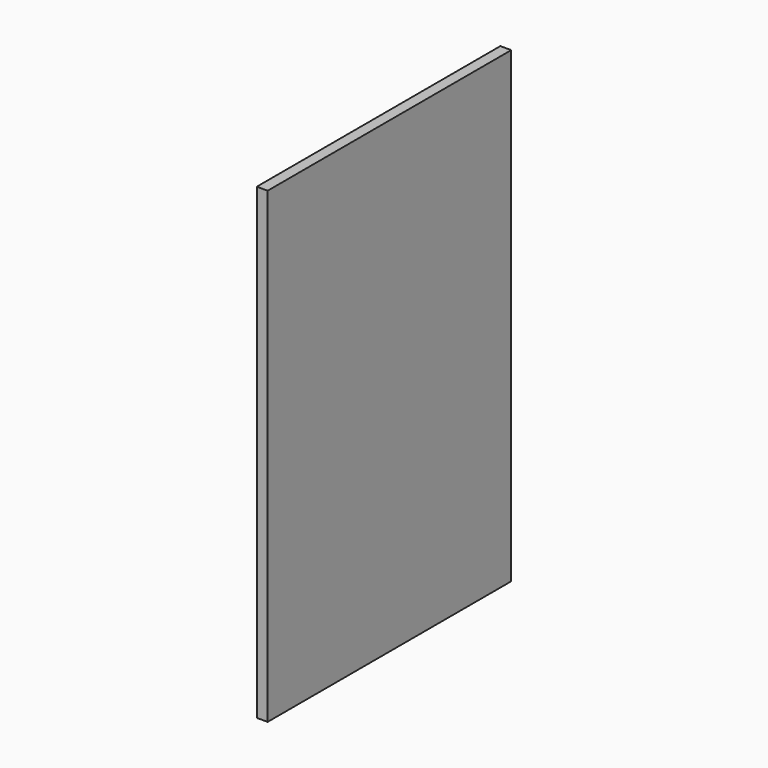
from build123d import *

# Parameters (mm, degrees)
F0_W      = 3.175
F0_H      = 136.525
F1_DEPTH  = 254
F1_FACE_W = 3.175
F1_FACE_H = 136.525
F2_DEPTH  = 165.1


with BuildPart() as f1:
    # F0 (on Front) → F1 (new body)
    with BuildSketch(Plane.XZ):
        with Locations((-47.379184, 6.335265)):
            Rectangle(F0_W, F0_H)
    extrude(amount=F1_DEPTH)

    # F1_face (on face) → F2 (cut)
    with BuildSketch(Plane(origin=(-47.379184, -254, 6.335265), x_dir=(1, 0, 0), z_dir=(0, -1, 0))):
        Rectangle(F1_FACE_W, F1_FACE_H)
    extrude(amount=-F2_DEPTH, mode=Mode.SUBTRACT)


solid = f1.part
